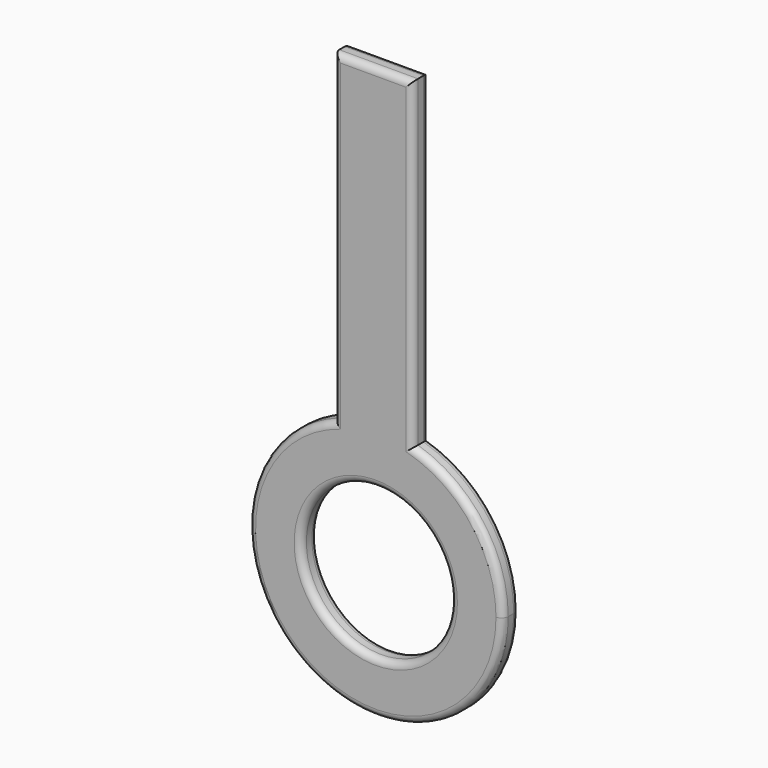
from build123d import *

# Parameters (mm, degrees)
F0_R     = 10.961863
F1_DEPTH = 3
F2_R     = 1


with BuildPart() as f1:
    # F0 (on Front) → F1 (new body)
    with BuildSketch(Plane.XZ):
        with BuildLine():
            ThreePointArc((-6.145463, -47.485849), (-0.395163, -46.446212), (5.394089, -47.240795))
            Line((5.394089, -47.240795), (5.394089, 0))
            Line((5.394089, 0), (-6.145463, 0))
            Line((-6.145463, 0), (-6.145463, -47.485849))
        make_face()
        with BuildLine():
            ThreePointArc((-6.145463, -47.485849), (-10.771201, -80.233288), (18.612333, -65.05435))
            ThreePointArc((18.612333, -65.05435), (14.946831, -53.963309), (5.394089, -47.240795))
            ThreePointArc((5.394089, -47.240795), (-0.395163, -46.446212), (-6.145463, -47.485849))
        make_face()
        with Locations((0, -65.05435)):
            Circle(F0_R, mode=Mode.SUBTRACT)
    extrude(amount=F1_DEPTH)

    # F2
    f2_edges = [f1.edges().sort_by_distance(p)[0] for p in [
        (-10.771201, -3, -80.233288),
        (14.946831, -3, -53.963309),
        (5.394089, -3, -23.620397),
        (-0.375687, -3, 0),
        (-6.145463, -3, -23.742925),
        (-10.961863, -3, -65.05435),
        (14.946831, 0, -53.963309),
        (5.394089, 0, -23.620397),
        (-0.375687, 0, 0),
        (-6.145463, 0, -23.742925),
        (-10.771201, 0, -80.233288),
        (-10.961863, 0, -65.05435),
    ]]
    fillet(f2_edges, radius=F2_R)


solid = f1.part
